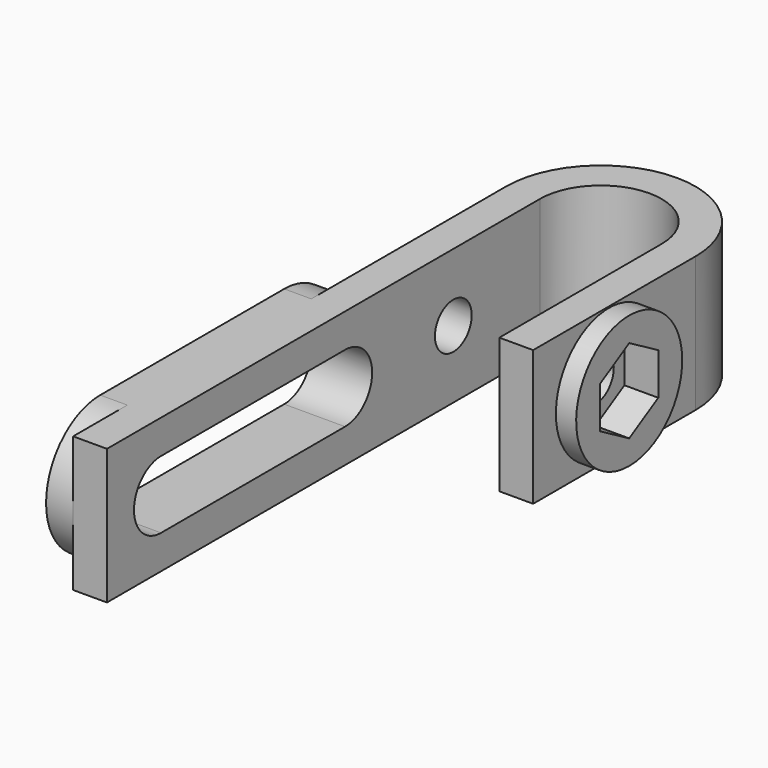
from build123d import *

# Parameters (mm, degrees)
PRISM_DEPTH             = 4
PRISM_PITCH_ANGLE       = 90
CYLINDER_R              = 1.7
CYLINDER_DEPTH          = 20
CYLINDER_PITCH_ANGLE    = 90
CYLINDER001_R           = 4.9
CYLINDER001_DEPTH       = 3
CYLINDER001_PITCH_ANGLE = 90
PAD_DEPTH               = 10
PAD001_DEPTH            = 2
POCKET_DEPTH            = 5


with BuildPart() as prisma:
    # Prism → Prism (new body)
    with BuildSketch(Plane.XY):
        Polygon((3.1, 0), (1.55, 2.684679), (-1.55, 2.684679), (-3.1, 0), (-1.55, -2.684679), (1.55, -2.684679), align=None)
    extrude(amount=PRISM_DEPTH)


with BuildPart() as prisma_1:
    # Prism pitch: moved
    add(prisma.part.rotate(Axis((0, 0, 0), (0, 1, 0)), PRISM_PITCH_ANGLE))


with BuildPart() as prisma_2:
    # Prism placement: moved
    add(prisma_1.part.moved(Location((13, 32, 5))))


with BuildPart() as cilindro:
    # Cylinder → Cylinder (new body)
    with BuildSketch(Plane.XY):
        Circle(CYLINDER_R)
    extrude(amount=CYLINDER_DEPTH)


with BuildPart() as cilindro_1:
    # Cylinder pitch: moved
    add(cilindro.part.rotate(Axis((0, 0, 0), (0, 1, 0)), CYLINDER_PITCH_ANGLE))


with BuildPart() as cilindro_2:
    # Cylinder placement: moved
    add(cilindro_1.part.moved(Location((-4, 32, 5))))


with BuildPart() as cilindro001:
    # Cylinder001 → Cylinder001 (new body)
    with BuildSketch(Plane.XY):
        Circle(CYLINDER001_R)
    extrude(amount=CYLINDER001_DEPTH)


with BuildPart() as cilindro001_1:
    # Cylinder001 pitch: moved
    add(cilindro001.part.rotate(Axis((0, 0, 0), (0, 1, 0)), CYLINDER001_PITCH_ANGLE))


with BuildPart() as cilindro001_2:
    # Cylinder001 placement: moved
    add(cilindro001_1.part.moved(Location((12.5, 32, 5))))


with BuildPart() as pocket:
    # Sketch → Pad (new body)
    with BuildSketch(Plane.XY):
        with BuildLine():
            Line((0, 40), (0, 0))
            Line((0, 0), (2.5, 0))
            Line((2.5, 0), (2.5, 40))
            ThreePointArc((11.5, 40), (7, 44.5), (2.5, 40))
            Line((11.5, 40), (11.5, 25))
            Line((11.5, 25), (14, 25))
            Line((14, 25), (14, 40))
            ThreePointArc((14, 40), (7, 47), (0, 40))
        make_face()
    extrude(amount=PAD_DEPTH)

    # Fusion: union Cilindro001
    add(cilindro001_2.part)

    # Cut: cut Cilindro
    add(cilindro_2.part, mode=Mode.SUBTRACT)

    # Cut001: cut Prisma
    add(prisma_2.part, mode=Mode.SUBTRACT)

    # Sketch001 → Pad001 (new body, symmetric)
    with BuildSketch(Plane(origin=(0, 0, 0), x_dir=(0, -1, 0), z_dir=(-1, 0, 0))):
        with BuildLine():
            ThreePointArc((-22.000056, 10), (-27.000056, 4.999986), (-22.000028, 0))
            Line((-22.000028, 0), (-5.000028, 0))
            ThreePointArc((-5.000028, 0), (0, 4.999986), (-5, 10))
            Line((-22.000056, 10), (-5, 10))
        make_face()
    extrude(amount=PAD001_DEPTH, both=True)

    # Sketch002 → Pocket (cut)
    with BuildSketch(Plane(origin=(-2, 0, 0), x_dir=(0, -1, 0), z_dir=(-1, 0, 0))):
        with BuildLine():
            ThreePointArc((-21.99998, 7.5), (-24.499981, 5.00001), (-22, 2.5))
            Line((-22, 2.5), (-5, 2.5))
            ThreePointArc((-5, 2.5), (-2.500017, 5.000009), (-5.000017, 7.5))
            Line((-21.99998, 7.5), (-5.000017, 7.5))
        make_face()
    extrude(amount=-POCKET_DEPTH, mode=Mode.SUBTRACT)


solid = pocket.part
